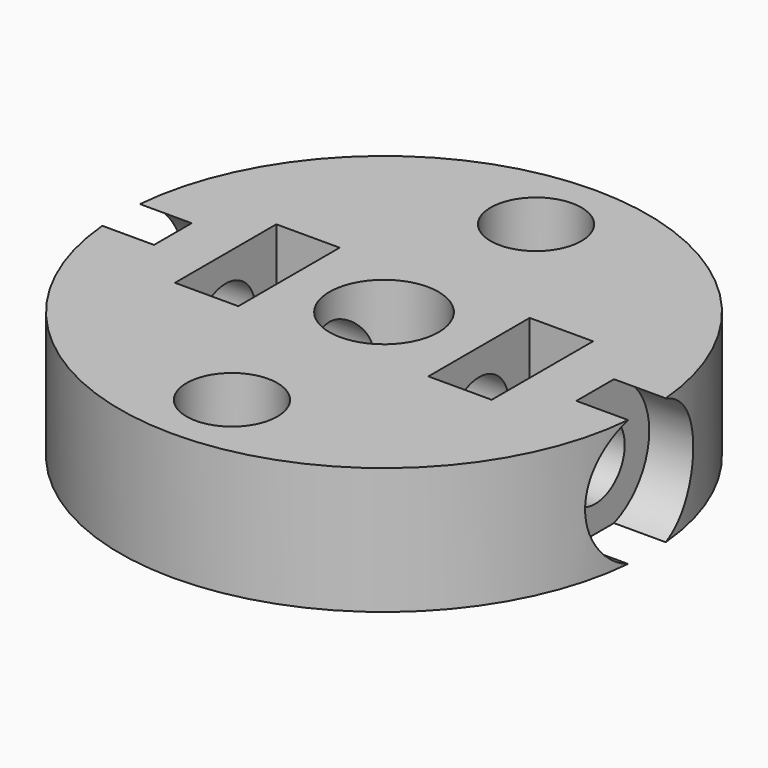
from build123d import *

# Parameters (mm, degrees)
F0_R     = 12.5
F0_R_2   = 2.15
F0_W     = 3
F0_H     = 6
F0_R_3   = 2.585
F1_DEPTH = 6
F0_R_4   = 1.65
F2_DEPTH = 1
F3_R     = 1.75
F4_DEPTH = 12.5
F5_START = -10
F3_R_2   = 3.2
F5_DEPTH = 15
F6_START = 10
F6_DEPTH = 15


with BuildPart() as f1:
    # F0 (on Top) → F1 (new body)
    with BuildSketch(Plane.XY):
        Circle(F0_R)
        with Locations((0, -9)):
            Circle(F0_R_2, mode=Mode.SUBTRACT)
        with Locations((-6, 0)):
            Rectangle(F0_W, F0_H, mode=Mode.SUBTRACT)
        Circle(F0_R_3, mode=Mode.SUBTRACT)
        with Locations((6, 0)):
            Rectangle(F0_W, F0_H, mode=Mode.SUBTRACT)
        with Locations((0, 9)):
            Circle(F0_R_2, mode=Mode.SUBTRACT)
        Circle(F0_R)
        with Locations((0, -9)):
            Circle(F0_R_2, mode=Mode.SUBTRACT)
        with Locations((-6, 0)):
            Rectangle(F0_W, F0_H, mode=Mode.SUBTRACT)
        Circle(F0_R_3, mode=Mode.SUBTRACT)
        with Locations((6, 0)):
            Rectangle(F0_W, F0_H, mode=Mode.SUBTRACT)
        with Locations((0, 9)):
            Circle(F0_R_2, mode=Mode.SUBTRACT)
    extrude(amount=F1_DEPTH)

    # F0 (on Top) → F2 (join)
    with BuildSketch(Plane.XY):
        with Locations((0, 9)):
            Circle(F0_R_2)
        with Locations((0, 9)):
            Circle(F0_R_4, mode=Mode.SUBTRACT)
        with Locations((0, -9)):
            Circle(F0_R_2)
        with Locations((0, -9)):
            Circle(F0_R_4, mode=Mode.SUBTRACT)
    extrude(amount=F2_DEPTH)

    # F3 (on Right) → F4 (cut, symmetric)
    with BuildSketch(Plane.YZ):
        with Locations((0, 3)):
            Circle(F3_R)
    extrude(amount=F4_DEPTH, both=True, mode=Mode.SUBTRACT)

    # F3 (on Right) → F5 (cut)
    with BuildSketch(Plane.YZ.offset(F5_START)):
        with Locations((0, 3)):
            Circle(F3_R_2)
        with Locations((0, 3)):
            Circle(F3_R, mode=Mode.SUBTRACT)
    extrude(amount=-F5_DEPTH, mode=Mode.SUBTRACT)

    # F3 (on Right) → F6 (cut)
    with BuildSketch(Plane.YZ.offset(F6_START)):
        with Locations((0, 3)):
            Circle(F3_R_2)
        with Locations((0, 3)):
            Circle(F3_R, mode=Mode.SUBTRACT)
    extrude(amount=F6_DEPTH, mode=Mode.SUBTRACT)


solid = f1.part
